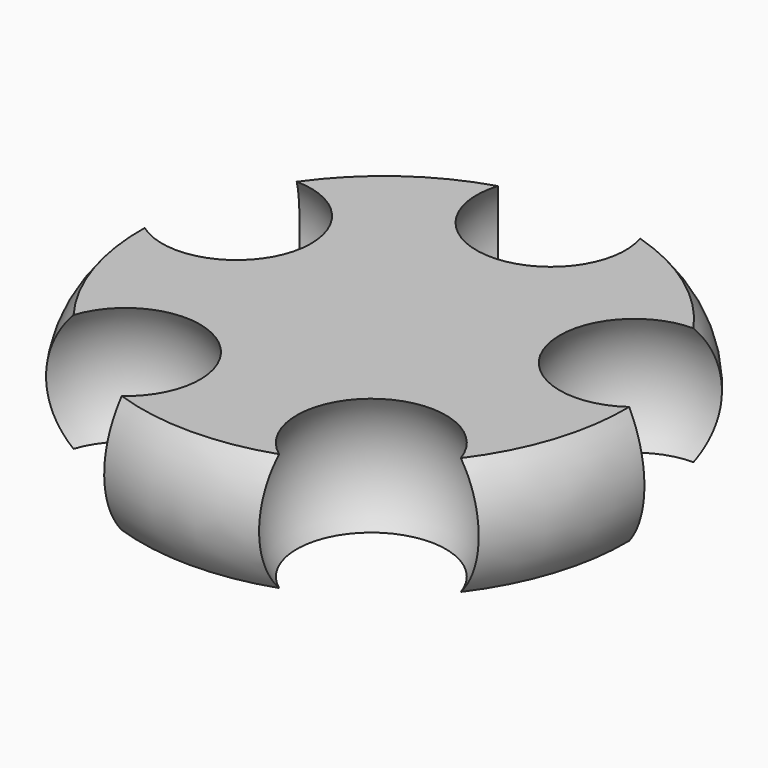
from build123d import *

# Parameters (mm, degrees)
ARRAY_COUNT = 5


with BuildPart() as spheres:
    # Sphere → Sphere (revolve)
    with BuildSketch(Plane.XZ.offset(-22)):
        with BuildLine():
            ThreePointArc((0, -10), (10, 0), (0, 10))
            Line((0, 10), (0, -10))
        make_face()
    revolve(axis=Axis((0, 22, 0), (0, 0, 1)))

    # Array: spheres ×5 about axis
    array_axis = Axis((0, 0, 0), (0, 0, 1))


with BuildPart() as spheres_1:
    add(spheres.part)
    for i in range(1, ARRAY_COUNT):
        add(spheres.part.rotate(array_axis, i * 360 / ARRAY_COUNT))


with BuildPart() as hub_parametric:
    # Sketch → Revolution (revolve)
    with BuildSketch(Plane.YZ):
        with BuildLine():
            Line((-25.5, 6.2), (0, 6.2))
            Line((0, -6.2), (0, 6.2))
            Line((0, -6.2), (-25.5, -6.2))
            ThreePointArc((-25.5, 6.2), (-27.802084, 0), (-25.5, -6.2))
        make_face()
    revolve(axis=Axis((0, 0, 0), (0, 0, 1)))

    # Cut: cut spheres
    add(spheres_1.part, mode=Mode.SUBTRACT)


solid = hub_parametric.part
